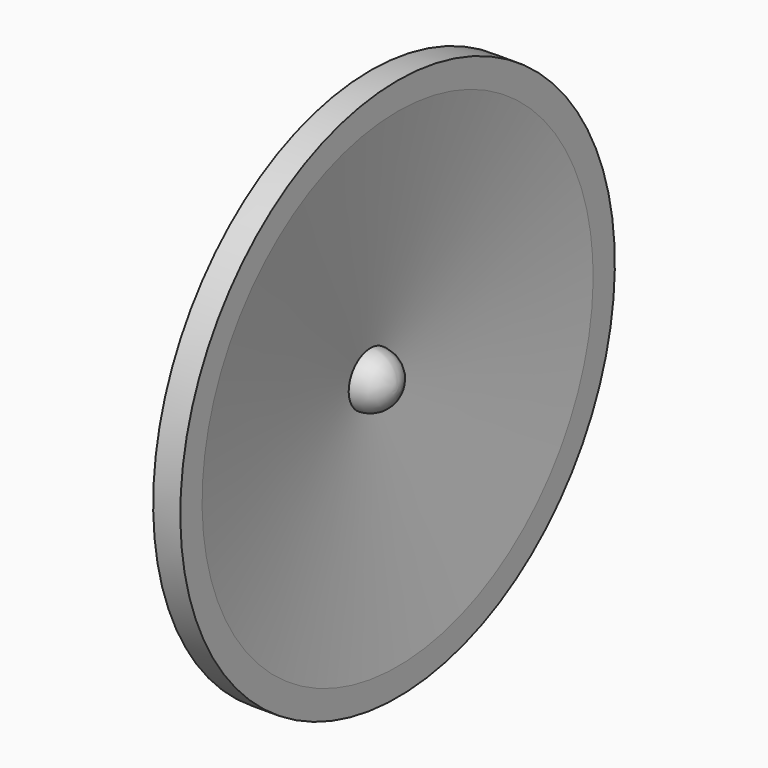
from build123d import *


with BuildPart() as f1:
    # F0 (on Front) → F1 (revolve)
    with BuildSketch(Plane.XZ):
        Polygon((0, 65), (0, 6.5), (6.5, 58.5), (6.5, 65), align=None)
        with BuildLine():
            Line((0, 6.5), (0, 0))
            Line((0, 0), (6.5, 0))
            ThreePointArc((6.5, 0), (4.596194, 4.596194), (0, 6.5))
        make_face()
    revolve(axis=Axis((3.25, 0, 0), (1, 0, 0)))


solid = f1.part
